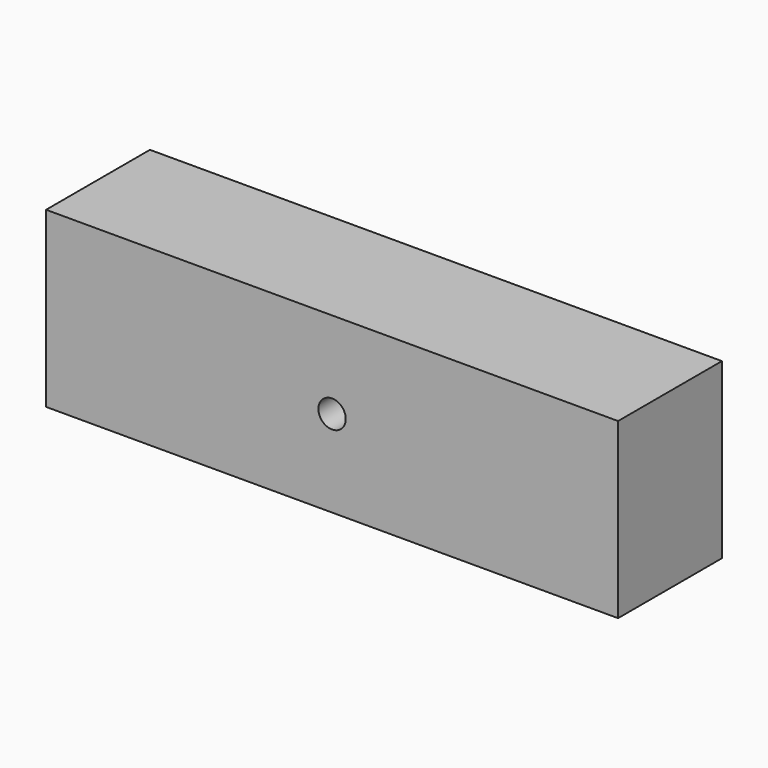
from build123d import *

# Parameters (mm, degrees)
F0_W     = 132.627964
F0_H     = 40.24572
F1_DEPTH = 30.099
F2_D     = 6.35


with BuildPart() as f1:
    # F0 (on Front) → F1 (new body)
    with BuildSketch(Plane.XZ):
        Rectangle(F0_W, F0_H)
    extrude(amount=F1_DEPTH)

    # F2 (through all)
    with Locations(Plane(origin=(0, 0, 0), x_dir=(1, 0, 0), z_dir=(0, 1, 0))):
        with Locations((0, 0)):
            Hole(F2_D / 2)


solid = f1.part
